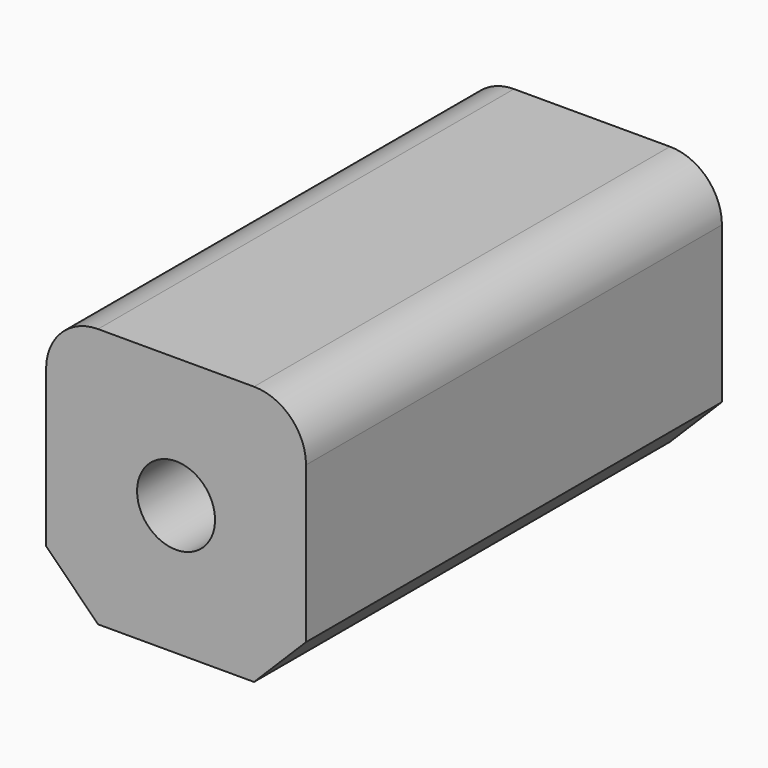
from build123d import *

# Parameters (mm, degrees)
F0_W     = 127
F0_H     = 127
F1_DEPTH = 254
F3_D     = 38.1
F4_R     = 25.4
F5_SIZE  = 25.4


with BuildPart() as f1:
    # F0 (on Front) → F1 (new body)
    with BuildSketch(Plane.XZ):
        with Locations((63.5, -63.5)):
            Rectangle(F0_W, F0_H)
    extrude(amount=F1_DEPTH)

    # F3 (through all)
    with Locations(Plane(origin=(0, 0, 0), x_dir=(1, 0, 0), z_dir=(0, 1, 0))):
        with Locations((63.5, 63.5)):
            Hole(F3_D / 2)

    # F4
    f4_edges = [f1.edges().sort_by_distance(p)[0] for p in [
        (127, -127, 0),
        (0, -127, 0),
    ]]
    fillet(f4_edges, radius=F4_R)

    # F5
    f5_edges = [f1.edges().sort_by_distance(p)[0] for p in [
        (127, -127, -127),
        (0, -127, -127),
    ]]
    chamfer(f5_edges, length=F5_SIZE)


solid = f1.part
